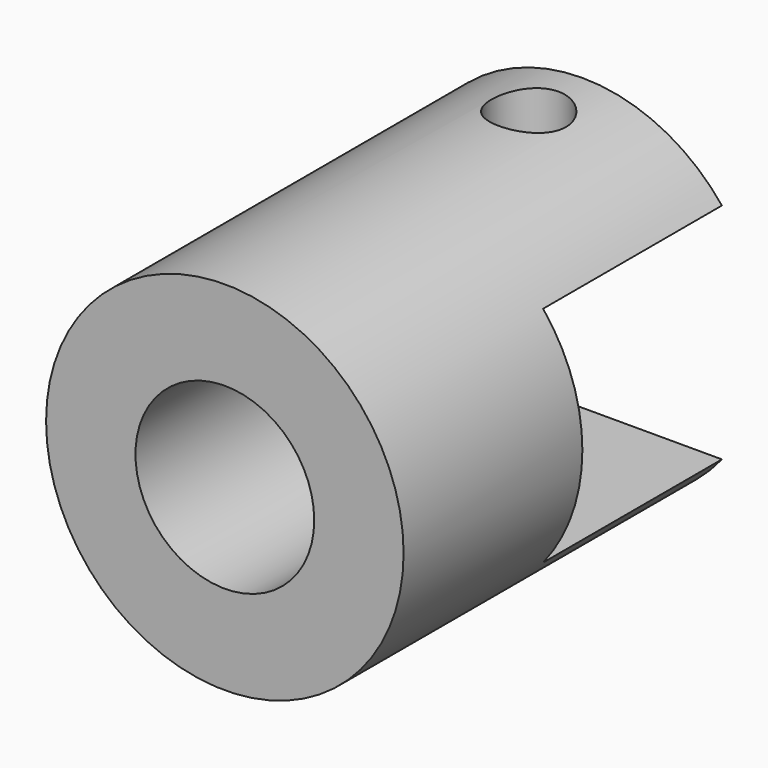
from build123d import *

# Parameters (mm, degrees)
F0_R     = 12
F0_R_2   = 6
F1_DEPTH = 30
F2_W     = 30
F2_H     = 15
F3_DEPTH = 12.5
F4_R     = 2.5
F5_DEPTH = 12.5


with BuildPart() as f1:
    # F0 (on Front) → F1 (new body)
    with BuildSketch(Plane.XZ):
        Circle(F0_R)
        Circle(F0_R_2, mode=Mode.SUBTRACT)
    extrude(amount=F1_DEPTH)

    # F2 (on Right) → F3 (cut, symmetric)
    with BuildSketch(Plane.YZ):
        Rectangle(F2_W, F2_H)
    extrude(amount=F3_DEPTH, both=True, mode=Mode.SUBTRACT)

    # F4 (on Top) → F5 (cut, symmetric)
    with BuildSketch(Plane.XY):
        with Locations((0, -4.5)):
            Circle(F4_R)
    extrude(amount=F5_DEPTH, both=True, mode=Mode.SUBTRACT)


solid = f1.part
